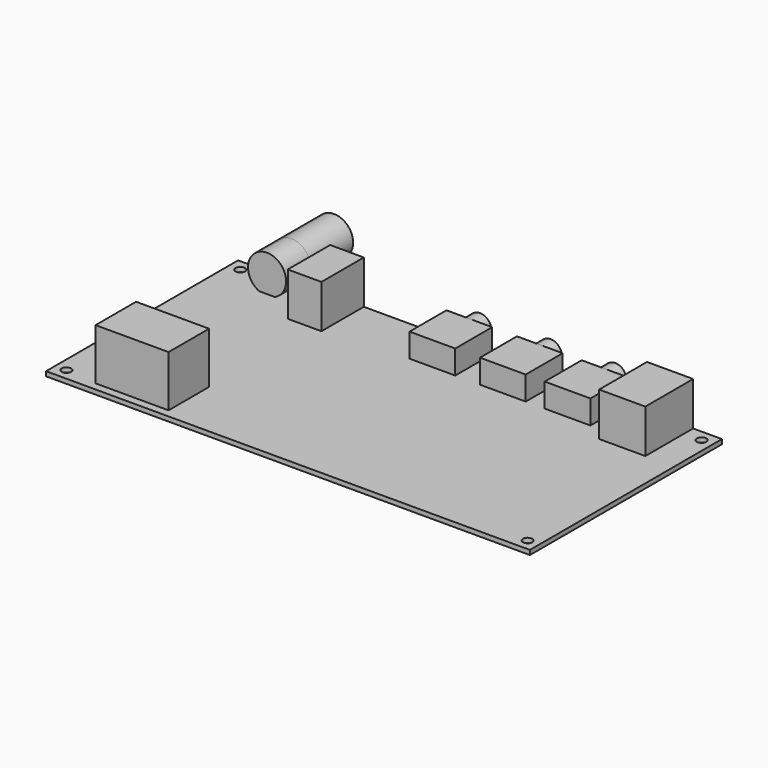
from build123d import *

# Parameters (mm, degrees)
F0_W           = 127
F0_H           = 63
F1_DEPTH       = 1.2
F2_R           = 1.25
F3_DEPTH       = 1.2
F4_W           = 12
F4_H           = 12.13
F5_DEPTH       = 6.25
F6_R           = 3
F7_DEPTH       = 3.52
F8_R           = 1.775
F9_DEPTH       = 14
F10_W          = 12.12
F10_H          = 15.7
F11_DEPTH      = 11.43
F13_DEPTH      = 9
F14_W          = 8.84
F14_H          = 13.9
F15_DEPTH      = 11.4
F16_R          = 3.2
F17_DEPTH      = 9.25
F18_R          = 1.15
F19_DEPTH      = 8.25
F20_R          = 1
F21_R          = 5
F22_DEPTH      = 14
F22_DEPTH_BACK = 8
F23_R          = 4.1
F24_DEPTH      = 8.6
F25_R          = 2.3
F26_DEPTH      = 4.9
F27_W          = 19.16
F27_H          = 13.3
F28_DEPTH      = 13.46


with BuildPart() as f1:
    # F0 (on Top) → F1 (new body)
    with BuildSketch(Plane.XY):
        with Locations((63.5, -31.5)):
            Rectangle(F0_W, F0_H)
    extrude(amount=F1_DEPTH)

    # F2 (on face) → F3 (cut, through all)
    with BuildSketch(Plane.XY.offset(1.2)):
        with Locations((2.955, -2.955)):
            Circle(F2_R)
        with Locations((2.955, -60.045)):
            Circle(F2_R)
        with Locations((124.045, -60.045)):
            Circle(F2_R)
        with Locations((124.045, -2.955)):
            Circle(F2_R)
    extrude(amount=-F3_DEPTH, mode=Mode.SUBTRACT)

    # F4 (on face) → F5 (join)
    with BuildSketch(Plane.XY.offset(1.2)):
        with Locations((96.19, -6.065)):
            Rectangle(F4_W, F4_H)
        with Locations((79.2, -6.065)):
            Rectangle(F4_W, F4_H)
        with Locations((60.7, -6.065)):
            Rectangle(F4_W, F4_H)
    extrude(amount=F5_DEPTH)

    # F6 (on face) → F7 (join)
    with BuildSketch(Plane(origin=(0, 0, 0), x_dir=(-1, 0, 0), z_dir=(0, 1, 0))):
        with Locations((-96.19, 4.325)):
            Circle(F6_R)
        with Locations((-79.2, 4.325)):
            Circle(F6_R)
        with Locations((-60.7, 4.325)):
            Circle(F6_R)
    extrude(amount=F7_DEPTH)

    # F8 (on face) → F9 (cut)
    with BuildSketch(Plane(origin=(0, 3.52, 0), x_dir=(-1, 0, 0), z_dir=(0, 1, 0))):
        with Locations((-96.19, 4.325)):
            Circle(F8_R)
        with Locations((-79.2, 4.325)):
            Circle(F8_R)
        with Locations((-60.7, 4.325)):
            Circle(F8_R)
    extrude(amount=-F9_DEPTH, mode=Mode.SUBTRACT)

    # F10 (on face) → F11 (join)
    with BuildSketch(Plane.XY.offset(1.2)):
        with Locations((113.39, -7.85)):
            Rectangle(F10_W, F10_H)
    extrude(amount=F11_DEPTH)

    # F12 (on face) → F13 (cut)
    with BuildSketch(Plane(origin=(0, 0, 0), x_dir=(-1, 0, 0), z_dir=(0, 1, 0))):
        Polygon((-117.78, 8.72), (-117.78, 2.8), (-109, 2.8), (-109, 8.72), (-110.89, 10.2), (-115.89, 10.2), align=None)
    extrude(amount=-F13_DEPTH, mode=Mode.SUBTRACT)

    # F14 (on face) → F15 (join)
    with BuildSketch(Plane.XY.offset(1.2)):
        with Locations((28.58, -6.95)):
            Rectangle(F14_W, F14_H)
    extrude(amount=F15_DEPTH)

    # F16 (on face) → F17 (cut)
    with BuildSketch(Plane(origin=(0, 0, 0), x_dir=(-1, 0, 0), z_dir=(0, 1, 0))):
        with Locations((-28.58, 8.1)):
            Circle(F16_R)
    extrude(amount=-F17_DEPTH, mode=Mode.SUBTRACT)

    # F18 (on face) → F19 (join, through all)
    with BuildSketch(Plane(origin=(0, -9.25, 0), x_dir=(-1, 0, 0), z_dir=(0, 1, 0))):
        with Locations((-28.58, 8.1)):
            Circle(F18_R)
    extrude(amount=F19_DEPTH)

    # F20
    f20_edges = [f1.edges().sort_by_distance(p)[0] for p in [
        (29.73, -1, 8.1),
    ]]
    fillet(f20_edges, radius=F20_R)

    # F21 (on face) → F22 (join, two sides)
    with BuildSketch(Plane(origin=(0, 0, 0), x_dir=(-1, 0, 0), z_dir=(0, 1, 0))) as f22_sk:
        with Locations((-14, 5.77)):
            Circle(F21_R)
    extrude(amount=F22_DEPTH)
    extrude(f22_sk.sketch, amount=-F22_DEPTH_BACK)

    # F23 (on face) → F24 (cut)
    with BuildSketch(Plane(origin=(0, 14, 0), x_dir=(-1, 0, 0), z_dir=(0, 1, 0))):
        with Locations((-14, 5.77)):
            Circle(F23_R)
    extrude(amount=-F24_DEPTH, mode=Mode.SUBTRACT)

    # F25 (on face) → F26 (join, through all)
    with BuildSketch(Plane(origin=(0, 5.4, 0), x_dir=(-1, 0, 0), z_dir=(0, 1, 0))):
        with Locations((-14, 5.77)):
            Circle(F25_R)
    extrude(amount=F26_DEPTH)

    # F27 (on face) → F28 (join)
    with BuildSketch(Plane.XY.offset(1.2)):
        with Locations((20.88, -54.24)):
            Rectangle(F27_W, F27_H)
    extrude(amount=F28_DEPTH)


solid = f1.part
